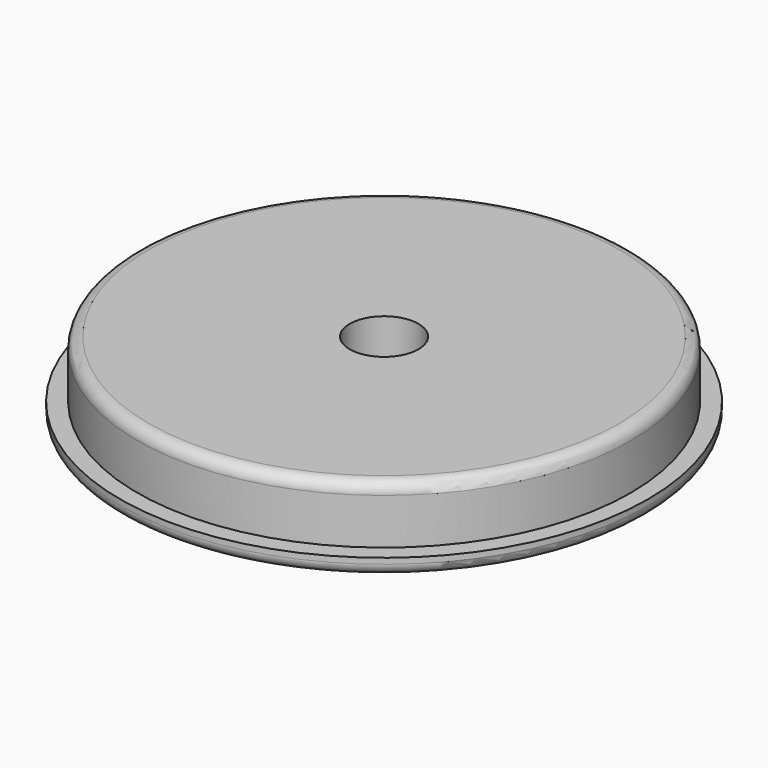
from build123d import *

# Parameters (mm, degrees)
F0_R     = 23
F0_R_2   = 21.5
F1_DEPTH = 1.5
F0_R_3   = 3
F2_DEPTH = 6.5
F3_R     = 1
F4_R     = 1


with BuildPart() as f1:
    # F0 (on Top) → F1 (new body)
    with BuildSketch(Plane.XY):
        with Locations((9.697127, 15.354596)):
            Circle(F0_R)
        with Locations((9.697127, 15.354596)):
            Circle(F0_R_2, mode=Mode.SUBTRACT)
    extrude(amount=F1_DEPTH)

    # F0 (on Top) → F2 (join)
    with BuildSketch(Plane.XY):
        with Locations((9.697127, 15.354596)):
            Circle(F0_R_2)
        with Locations((9.697127, 15.354596)):
            Circle(F0_R_3, mode=Mode.SUBTRACT)
    extrude(amount=F2_DEPTH)

    # F3
    f3_edges = [f1.edges().sort_by_distance(p)[0] for p in [
        (-11.802873, 15.354596, 6.5),
    ]]
    fillet(f3_edges, radius=F3_R)

    # F4
    f4_edges = [f1.edges().sort_by_distance(p)[0] for p in [
        (-13.302873, 15.354596, 0),
    ]]
    fillet(f4_edges, radius=F4_R)


solid = f1.part
